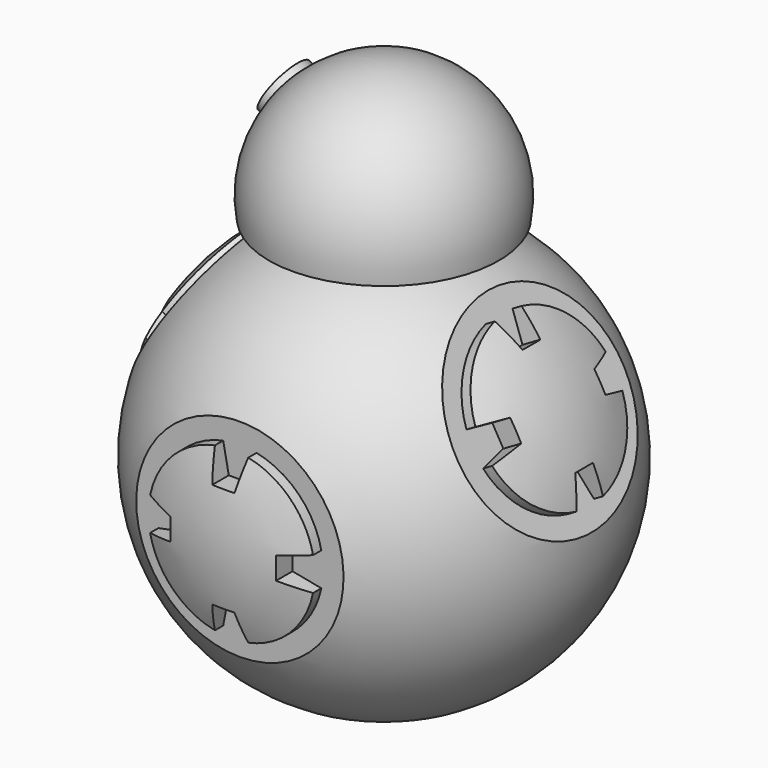
from build123d import *

# Parameters (mm, degrees)
F3_R      = 10.668
F4_DEPTH  = 2.54
F7_R      = 10.668
F8_DEPTH  = 2.54
F10_R     = 10.668
F11_DEPTH = 2.54
F13_R     = 10.668
F14_DEPTH = 2.54
F17_R     = 10.668
F18_DEPTH = 2.54
F20_R     = 2.54
F21_DEPTH = 1.27
F22_R     = 3.81
F23_DEPTH = 0.381


with BuildPart() as f1:
    # F0 (on Front) → F1 (revolve)
    with BuildSketch(Plane.XZ):
        with BuildLine():
            ThreePointArc((-10.5372201651, 19.2007943988), (-8.3937352467, 18.5219570398), (-6.2040482806, 18.0114487183))
            ThreePointArc((-6.2040482806, 18.0114487183), (-18.7885683074, -3.1451869512), (0, -19.05))
            Line((0, -19.05), (0, 31.75))
            ThreePointArc((0, 31.75), (-8.1932223519, 27.9311130717), (-10.5372201651, 19.2007943988))
        make_face()
    revolve(axis=Axis((0, 0, 6.35), (0, 0, 1)))

    # F3 (on offset) → F4 (cut)
    with BuildSketch(Plane.XZ.offset(19.05)):
        Circle(F3_R)
        with BuildLine():
            ThreePointArc((7.4653891165, -1.5272083482), (5.3881536726, -5.3881536726), (1.5272083482, -7.4653891165))
            Line((1.5272083482, -7.4653891165), (1.016, -4.826))
            Line((1.016, -4.826), (0, -4.826))
            Line((0, -4.826), (-1.016, -4.826))
            Line((-1.016, -4.826), (-1.5272083482, -7.4653891165))
            ThreePointArc((-1.5272083482, -7.4653891165), (-5.3881536726, -5.3881536726), (-7.4653891165, -1.5272083482))
            Line((-7.4653891165, -1.5272083482), (-4.826, -1.016))
            Line((-4.826, -1.016), (-4.826, 0))
            Line((-4.826, 0), (-4.826, 1.016))
            Line((-4.826, 1.016), (-7.4653891165, 1.5272083482))
            ThreePointArc((-7.4653891165, 1.5272083482), (-5.3881536726, 5.3881536726), (-1.5272083482, 7.4653891165))
            Line((-1.5272083482, 7.4653891165), (-1.016, 4.826))
            Line((-1.016, 4.826), (0, 4.826))
            Line((0, 4.826), (1.016, 4.826))
            Line((1.016, 4.826), (1.5272083482, 7.4653891165))
            ThreePointArc((1.5272083482, 7.4653891165), (5.3881536726, 5.3881536726), (7.4653891165, 1.5272083482))
            Line((7.4653891165, 1.5272083482), (4.826, 1.016))
            Line((4.826, 1.016), (4.826, 0))
            Line((4.826, 0), (4.826, -1.016))
            Line((4.826, -1.016), (7.4653891165, -1.5272083482))
        make_face(mode=Mode.SUBTRACT)
    extrude(amount=-F4_DEPTH, mode=Mode.SUBTRACT)

    # F7 (on line) → F8 (cut)
    with BuildSketch(Plane.XY.offset(-19.05)):
        Circle(F7_R)
        with BuildLine():
            ThreePointArc((7.4653891165, -1.5272083482), (5.3881536726, -5.3881536726), (1.5272083482, -7.4653891165))
            Line((1.5272083482, -7.4653891165), (1.016, -4.826))
            Line((1.016, -4.826), (0, -4.826))
            Line((0, -4.826), (-1.016, -4.826))
            Line((-1.016, -4.826), (-1.5272083482, -7.4653891165))
            ThreePointArc((-1.5272083482, -7.4653891165), (-5.3881536726, -5.3881536726), (-7.4653891165, -1.5272083482))
            Line((-7.4653891165, -1.5272083482), (-4.826, -1.016))
            Line((-4.826, -1.016), (-4.826, 0))
            Line((-4.826, 0), (-4.826, 1.016))
            Line((-4.826, 1.016), (-7.4653891165, 1.5272083482))
            ThreePointArc((-7.4653891165, 1.5272083482), (-5.3881536726, 5.3881536726), (-1.5272083482, 7.4653891165))
            Line((-1.5272083482, 7.4653891165), (-1.016, 4.826))
            Line((-1.016, 4.826), (0, 4.826))
            Line((0, 4.826), (1.016, 4.826))
            Line((1.016, 4.826), (1.5272083482, 7.4653891165))
            ThreePointArc((1.5272083482, 7.4653891165), (5.3881536726, 5.3881536726), (7.4653891165, 1.5272083482))
            Line((7.4653891165, 1.5272083482), (4.826, 1.016))
            Line((4.826, 1.016), (4.826, 0))
            Line((4.826, 0), (4.826, -1.016))
            Line((4.826, -1.016), (7.4653891165, -1.5272083482))
        make_face(mode=Mode.SUBTRACT)
    extrude(amount=F8_DEPTH, mode=Mode.SUBTRACT)

    # F10 (on line) → F11 (cut)
    with BuildSketch(Plane(origin=(-16.4977839421, 0, 9.525), x_dir=(0, -1, 0), z_dir=(-0.8660254038, 0, 0.5))):
        Circle(F10_R)
        with BuildLine():
            ThreePointArc((7.4653891165, -1.5272083482), (5.3881536726, -5.3881536726), (1.5272083482, -7.4653891165))
            Line((1.5272083482, -7.4653891165), (1.016, -4.826))
            Line((1.016, -4.826), (0, -4.826))
            Line((0, -4.826), (-1.016, -4.826))
            Line((-1.016, -4.826), (-1.5272083482, -7.4653891165))
            ThreePointArc((-1.5272083482, -7.4653891165), (-5.3881536726, -5.3881536726), (-7.4653891165, -1.5272083482))
            Line((-7.4653891165, -1.5272083482), (-4.826, -1.016))
            Line((-4.826, -1.016), (-4.826, 0))
            Line((-4.826, 0), (-4.826, 1.016))
            Line((-4.826, 1.016), (-7.4653891165, 1.5272083482))
            ThreePointArc((-7.4653891165, 1.5272083482), (-5.3881536726, 5.3881536726), (-1.5272083482, 7.4653891165))
            Line((-1.5272083482, 7.4653891165), (-1.016, 4.826))
            Line((-1.016, 4.826), (0, 4.826))
            Line((0, 4.826), (1.016, 4.826))
            Line((1.016, 4.826), (1.5272083482, 7.4653891165))
            ThreePointArc((1.5272083482, 7.4653891165), (5.3881536726, 5.3881536726), (7.4653891165, 1.5272083482))
            Line((7.4653891165, 1.5272083482), (4.826, 1.016))
            Line((4.826, 1.016), (4.826, 0))
            Line((4.826, 0), (4.826, -1.016))
            Line((4.826, -1.016), (7.4653891165, -1.5272083482))
        make_face(mode=Mode.SUBTRACT)
    extrude(amount=-F11_DEPTH, mode=Mode.SUBTRACT)

    # F13 (on line) → F14 (cut)
    with BuildSketch(Plane(origin=(16.4977839421, 0, 9.525), x_dir=(0, 1, 0), z_dir=(0.8660254038, 0, 0.5))):
        Circle(F13_R)
        with BuildLine():
            ThreePointArc((7.4653891165, -1.5272083482), (5.3881536726, -5.3881536726), (1.5272083482, -7.4653891165))
            Line((1.5272083482, -7.4653891165), (1.016, -4.826))
            Line((1.016, -4.826), (0, -4.826))
            Line((0, -4.826), (-1.016, -4.826))
            Line((-1.016, -4.826), (-1.5272083482, -7.4653891165))
            ThreePointArc((-1.5272083482, -7.4653891165), (-5.3881536726, -5.3881536726), (-7.4653891165, -1.5272083482))
            Line((-7.4653891165, -1.5272083482), (-4.826, -1.016))
            Line((-4.826, -1.016), (-4.826, 0))
            Line((-4.826, 0), (-4.826, 1.016))
            Line((-4.826, 1.016), (-7.4653891165, 1.5272083482))
            ThreePointArc((-7.4653891165, 1.5272083482), (-5.3881536726, 5.3881536726), (-1.5272083482, 7.4653891165))
            Line((-1.5272083482, 7.4653891165), (-1.016, 4.826))
            Line((-1.016, 4.826), (0, 4.826))
            Line((0, 4.826), (1.016, 4.826))
            Line((1.016, 4.826), (1.5272083482, 7.4653891165))
            ThreePointArc((1.5272083482, 7.4653891165), (5.3881536726, 5.3881536726), (7.4653891165, 1.5272083482))
            Line((7.4653891165, 1.5272083482), (4.826, 1.016))
            Line((4.826, 1.016), (4.826, 0))
            Line((4.826, 0), (4.826, -1.016))
            Line((4.826, -1.016), (7.4653891165, -1.5272083482))
        make_face(mode=Mode.SUBTRACT)
    extrude(amount=-F14_DEPTH, mode=Mode.SUBTRACT)

    # F17 (on line) → F18 (cut)
    with BuildSketch(Plane(origin=(0, 19.05, 0), x_dir=(-1, 0, 0), z_dir=(0, 1, 0))):
        Circle(F17_R)
        with BuildLine():
            ThreePointArc((7.4653891165, -1.5272083482), (5.3881536726, -5.3881536726), (1.5272083482, -7.4653891165))
            Line((1.5272083482, -7.4653891165), (1.016, -4.826))
            Line((1.016, -4.826), (0, -4.826))
            Line((0, -4.826), (-1.016, -4.826))
            Line((-1.016, -4.826), (-1.5272083482, -7.4653891165))
            ThreePointArc((-1.5272083482, -7.4653891165), (-5.3881536726, -5.3881536726), (-7.4653891165, -1.5272083482))
            Line((-7.4653891165, -1.5272083482), (-4.826, -1.016))
            Line((-4.826, -1.016), (-4.826, 0))
            Line((-4.826, 0), (-4.826, 1.016))
            Line((-4.826, 1.016), (-7.4653891165, 1.5272083482))
            ThreePointArc((-7.4653891165, 1.5272083482), (-5.3881536726, 5.3881536726), (-1.5272083482, 7.4653891165))
            Line((-1.5272083482, 7.4653891165), (-1.016, 4.826))
            Line((-1.016, 4.826), (0, 4.826))
            Line((0, 4.826), (1.016, 4.826))
            Line((1.016, 4.826), (1.5272083482, 7.4653891165))
            ThreePointArc((1.5272083482, 7.4653891165), (5.3881536726, 5.3881536726), (7.4653891165, 1.5272083482))
            Line((7.4653891165, 1.5272083482), (4.826, 1.016))
            Line((4.826, 1.016), (4.826, 0))
            Line((4.826, 0), (4.826, -1.016))
            Line((4.826, -1.016), (7.4653891165, -1.5272083482))
        make_face(mode=Mode.SUBTRACT)
    extrude(amount=-F18_DEPTH, mode=Mode.SUBTRACT)

    # F20 (on face) → F21 (join)
    with BuildSketch(Plane(origin=(-17.4943280127, 0, 10.2037177464), x_dir=(0, -1, 0), z_dir=(-0.8638069858, 0, 0.503822877))):
        with Locations((0, 18.6393670738)):
            Circle(F20_R)
    extrude(amount=F21_DEPTH)

    # F22 (on line) → F23 (cut)
    with BuildSketch(Plane.XY.offset(-19.05)):
        Circle(F22_R)
    extrude(amount=F23_DEPTH, mode=Mode.SUBTRACT)


solid = f1.part
